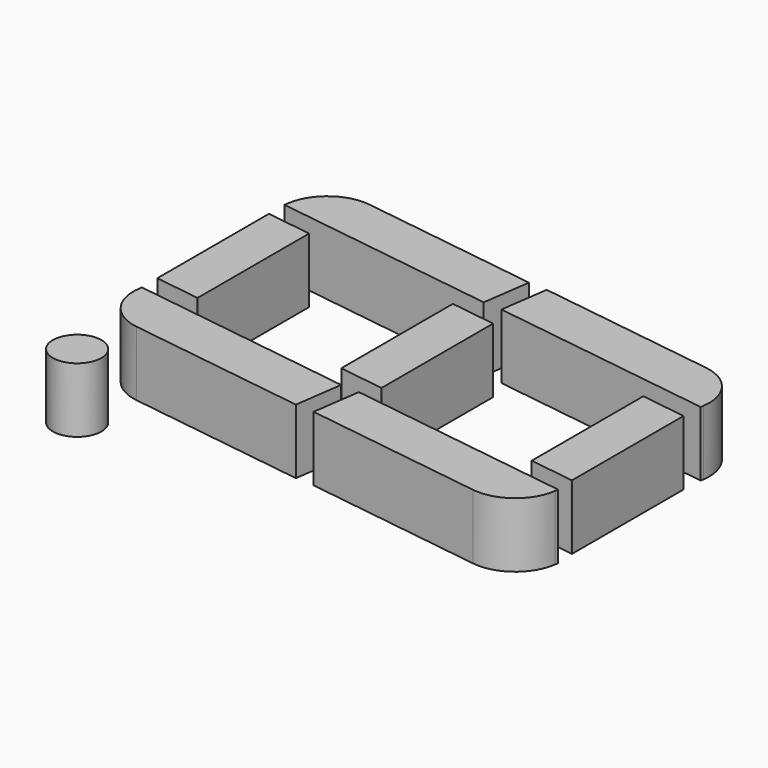
from build123d import *

# Parameters (mm, degrees)
BOX029_W               = 7
BOX029_H               = 1.5
BOX029_DEPTH           = 2
BOX029_PLACEMENT_ANGLE = -8
FILLET011_R            = 1.4
BOX028_W               = 7
BOX028_H               = 1.5
BOX028_DEPTH           = 2
BOX028_PLACEMENT_ANGLE = -8
FILLET008_R            = 1.4
BOX030_W               = 7
BOX030_H               = 1.5
BOX030_DEPTH           = 2
BOX030_PLACEMENT_ANGLE = -8
FILLET010_R            = 1.4
CYLINDER002_R          = 0.75
CYLINDER002_DEPTH      = 2
BOX040_W               = 7
BOX040_H               = 1.4
BOX040_DEPTH           = 2
BOX040_PLACEMENT_ANGLE = -8
BOX039_W               = 7
BOX039_H               = 1.4
BOX039_DEPTH           = 2
BOX039_PLACEMENT_ANGLE = -8
BOX038_W               = 1.4
BOX038_H               = 4.5
BOX038_DEPTH           = 2
BOX031_W               = 7
BOX031_H               = 1.5
BOX031_DEPTH           = 2
BOX031_PLACEMENT_ANGLE = -8
FILLET009_R            = 1.4
BOX037_W               = 7
BOX037_H               = 1.4
BOX037_DEPTH           = 2
BOX037_PLACEMENT_ANGLE = -8
BOX036_W               = 7
BOX036_H               = 1.4
BOX036_DEPTH           = 2
BOX036_PLACEMENT_ANGLE = -8
BOX035_W               = 1.4
BOX035_H               = 4.5
BOX035_DEPTH           = 2
BOX034_W               = 7
BOX034_H               = 1.4
BOX034_DEPTH           = 2
BOX034_PLACEMENT_ANGLE = -8
BOX033_W               = 7
BOX033_H               = 1.4
BOX033_DEPTH           = 2
BOX033_PLACEMENT_ANGLE = -8
BOX032_W               = 1.4
BOX032_H               = 4.5
BOX032_DEPTH           = 2


with BuildPart() as fillet011:
    # Box029 → Box029 (new body)
    with BuildSketch(Plane.XY):
        with Locations((3.5, 0.75)):
            Rectangle(BOX029_W, BOX029_H)
    extrude(amount=BOX029_DEPTH)


with BuildPart() as fillet011_1:
    # Box029 placement: moved
    add(fillet011.part.moved(Location((8.8, 7, 6.2))).rotate(Axis((8.8, 7, 6.2), (0, 0, 1)), BOX029_PLACEMENT_ANGLE))

    # Fillet011
    fillet011_edges = [fillet011_1.edges().sort_by_distance(p)[0] for p in [
        (15.731876, 6.025788, 7.2),
    ]]
    fillet(fillet011_edges, radius=FILLET011_R)


with BuildPart() as fillet011_2:
    # Fillet011 placement: moved
    add(fillet011_1.part.moved(Location((-0.5, 0, 0))))


with BuildPart() as fillet008:
    # Box028 → Box028 (new body)
    with BuildSketch(Plane.XY):
        with Locations((3.5, 0.75)):
            Rectangle(BOX028_W, BOX028_H)
    extrude(amount=BOX028_DEPTH)


with BuildPart() as fillet008_1:
    # Box028 placement: moved
    add(fillet008.part.moved(Location((-0.2, 8, 6.2))).rotate(Axis((-0.2, 8, 6.2), (0, 0, 1)), BOX028_PLACEMENT_ANGLE))

    # Fillet008
    fillet008_edges = [fillet008_1.edges().sort_by_distance(p)[0] for p in [
        (-0.2, 8, 7.2),
    ]]
    fillet(fillet008_edges, radius=FILLET008_R)


with BuildPart() as fillet008_2:
    # Fillet008 placement: moved
    add(fillet008_1.part.moved(Location((1, 0, 0))))


with BuildPart() as fillet010:
    # Box030 → Box030 (new body)
    with BuildSketch(Plane.XY):
        with Locations((3.5, 0.75)):
            Rectangle(BOX030_W, BOX030_H)
    extrude(amount=BOX030_DEPTH)


with BuildPart() as fillet010_1:
    # Box030 placement: moved
    add(fillet010.part.moved(Location((9, 14, 6.2))).rotate(Axis((9, 14, 6.2), (0, 0, 1)), BOX030_PLACEMENT_ANGLE))

    # Fillet010
    fillet010_edges = [fillet010_1.edges().sort_by_distance(p)[0] for p in [
        (16.140636, 14.51119, 7.2),
    ]]
    fillet(fillet010_edges, radius=FILLET010_R)


with BuildPart() as fillet010_2:
    # Fillet010 placement: moved
    add(fillet010_1.part.moved(Location((-0.5, 0, 0))))


with BuildPart() as cylinder002:
    # Cylinder002 → Cylinder002 (new body)
    with BuildSketch(Plane(origin=(1.8, 6, 6.2), x_dir=(1, 0, 0), z_dir=(0, 0, 1))):
        Circle(CYLINDER002_R)
    extrude(amount=CYLINDER002_DEPTH)


with BuildPart() as kub040:
    # Box040 → Box040 (new body)
    with BuildSketch(Plane.XY):
        with Locations((3.5, 0.7)):
            Rectangle(BOX040_W, BOX040_H)
    extrude(amount=BOX040_DEPTH)


with BuildPart() as kub040_1:
    # Box040 placement: moved
    add(kub040.part.moved(Location((-10, 9.2, 6.2))).rotate(Axis((-10, 9.2, 6.2), (0, 0, 1)), BOX040_PLACEMENT_ANGLE))


with BuildPart() as kub039:
    # Box039 → Box039 (new body)
    with BuildSketch(Plane.XY):
        with Locations((3.5, 0.7)):
            Rectangle(BOX039_W, BOX039_H)
    extrude(amount=BOX039_DEPTH)


with BuildPart() as kub039_1:
    # Box039 placement: moved
    add(kub039.part.moved(Location((-9, 14.78, 6.2))).rotate(Axis((-9, 14.78, 6.2), (0, 0, 1)), BOX039_PLACEMENT_ANGLE))


with BuildPart() as cut019:
    # Box038 → Box038 (new body)
    with BuildSketch(Plane(origin=(-7, 10, 6.2), x_dir=(1, 0, 0), z_dir=(0, 0, 1))):
        with Locations((0.7, 2.25)):
            Rectangle(BOX038_W, BOX038_H)
    extrude(amount=BOX038_DEPTH)

    # Cut018: cut Kub039
    add(kub039_1.part, mode=Mode.SUBTRACT)

    # Cut019: cut Kub040
    add(kub040_1.part, mode=Mode.SUBTRACT)


with BuildPart() as cut019_1:
    # Cut019 placement: moved
    add(cut019.part.moved(Location((21, -1.9, 0))))


with BuildPart() as fillet009:
    # Box031 → Box031 (new body)
    with BuildSketch(Plane.XY):
        with Locations((3.5, 0.75)):
            Rectangle(BOX031_W, BOX031_H)
    extrude(amount=BOX031_DEPTH)


with BuildPart() as fillet009_1:
    # Box031 placement: moved
    add(fillet009.part.moved(Location((0, 15, 6.2))).rotate(Axis((0, 15, 6.2), (0, 0, 1)), BOX031_PLACEMENT_ANGLE))

    # Fillet009
    fillet009_edges = [fillet009_1.edges().sort_by_distance(p)[0] for p in [
        (0.20876, 16.485402, 7.2),
    ]]
    fillet(fillet009_edges, radius=FILLET009_R)


with BuildPart() as fillet009_2:
    # Fillet009 placement: moved
    add(fillet009_1.part.moved(Location((1, 0, 0))))


with BuildPart() as kub037:
    # Box037 → Box037 (new body)
    with BuildSketch(Plane.XY):
        with Locations((3.5, 0.7)):
            Rectangle(BOX037_W, BOX037_H)
    extrude(amount=BOX037_DEPTH)


with BuildPart() as kub037_1:
    # Box037 placement: moved
    add(kub037.part.moved(Location((-10, 9.2, 6.2))).rotate(Axis((-10, 9.2, 6.2), (0, 0, 1)), BOX037_PLACEMENT_ANGLE))


with BuildPart() as kub036:
    # Box036 → Box036 (new body)
    with BuildSketch(Plane.XY):
        with Locations((3.5, 0.7)):
            Rectangle(BOX036_W, BOX036_H)
    extrude(amount=BOX036_DEPTH)


with BuildPart() as kub036_1:
    # Box036 placement: moved
    add(kub036.part.moved(Location((-9, 14.78, 6.2))).rotate(Axis((-9, 14.78, 6.2), (0, 0, 1)), BOX036_PLACEMENT_ANGLE))


with BuildPart() as cut017:
    # Box035 → Box035 (new body)
    with BuildSketch(Plane(origin=(-7, 10, 6.2), x_dir=(1, 0, 0), z_dir=(0, 0, 1))):
        with Locations((0.7, 2.25)):
            Rectangle(BOX035_W, BOX035_H)
    extrude(amount=BOX035_DEPTH)

    # Cut016: cut Kub036
    add(kub036_1.part, mode=Mode.SUBTRACT)

    # Cut017: cut Kub037
    add(kub037_1.part, mode=Mode.SUBTRACT)


with BuildPart() as cut017_1:
    # Cut017 placement: moved
    add(cut017.part.moved(Location((14.4, -1, 0))))


with BuildPart() as kub034:
    # Box034 → Box034 (new body)
    with BuildSketch(Plane.XY):
        with Locations((3.5, 0.7)):
            Rectangle(BOX034_W, BOX034_H)
    extrude(amount=BOX034_DEPTH)


with BuildPart() as kub034_1:
    # Box034 placement: moved
    add(kub034.part.moved(Location((-10, 9.2, 6.2))).rotate(Axis((-10, 9.2, 6.2), (0, 0, 1)), BOX034_PLACEMENT_ANGLE))


with BuildPart() as kub033:
    # Box033 → Box033 (new body)
    with BuildSketch(Plane.XY):
        with Locations((3.5, 0.7)):
            Rectangle(BOX033_W, BOX033_H)
    extrude(amount=BOX033_DEPTH)


with BuildPart() as kub033_1:
    # Box033 placement: moved
    add(kub033.part.moved(Location((-9, 14.78, 6.2))).rotate(Axis((-9, 14.78, 6.2), (0, 0, 1)), BOX033_PLACEMENT_ANGLE))


with BuildPart() as fusion002:
    # Box032 → Box032 (new body)
    with BuildSketch(Plane(origin=(-7, 10, 6.2), x_dir=(1, 0, 0), z_dir=(0, 0, 1))):
        with Locations((0.7, 2.25)):
            Rectangle(BOX032_W, BOX032_H)
    extrude(amount=BOX032_DEPTH)

    # Cut014: cut Kub033
    add(kub033_1.part, mode=Mode.SUBTRACT)

    # Cut015: cut Kub034
    add(kub034_1.part, mode=Mode.SUBTRACT)


with BuildPart() as fusion002_1:
    # Cut015 placement: moved
    add(fusion002.part.moved(Location((8, -0.1, 0))))

    # Fusion002: union Fillet011, Fillet008, Fillet010, Cylinder002, Cut019, Fillet009, Cut017
    add(fillet011_2.part)
    add(fillet008_2.part)
    add(fillet010_2.part)
    add(cylinder002.part)
    add(cut019_1.part)
    add(fillet009_2.part)
    add(cut017_1.part)


with BuildPart() as fusion002_2:
    # Fusion002 placement: moved
    add(fusion002_1.part.moved(Location((0, -24, 0))))


solid = fusion002_2.part
